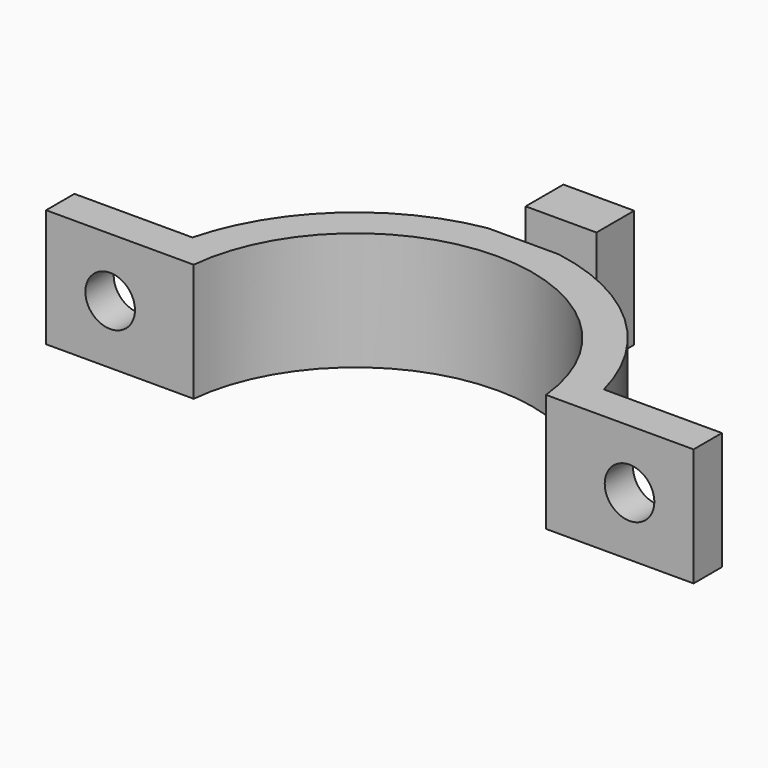
from build123d import *

# Parameters (mm, degrees)
PAD_DEPTH            = 10
SKETCH001_R          = 2.1
POCKET_DEPTH         = 147.35929
SKETCH002_W          = 4
SKETCH002_H          = 6
POCKET001_DEPTH      = 27.429425
POCKET001_DEPTH_BACK = -27.429425


with BuildPart() as part:
    # Sketch → Pad (new body)
    with BuildSketch(Plane.XY):
        with BuildLine():
            ThreePointArc((14.924812, 1.5), (0, 15), (-14.924812, 1.5))
            Line((-27.428425, 1.5), (-14.924812, 1.5))
            Line((-27.428425, 4.5), (-27.428425, 1.5))
            Line((-17.428425, 4.5), (-27.428425, 4.5))
            ThreePointArc((-3, 17.748239), (-12.174116, 13.258616), (-17.428425, 4.5))
            Line((-3, 17.748239), (-3, 25.748239))
            Line((-3, 25.748239), (3, 25.748239))
            Line((3, 25.748239), (3, 17.748239))
            ThreePointArc((17.428425, 4.5), (12.174116, 13.258616), (3, 17.748239))
            Line((27.428425, 4.5), (17.428425, 4.5))
            Line((27.428425, 1.5), (27.428425, 4.5))
            Line((14.924812, 1.5), (27.428425, 1.5))
        make_face()
    extrude(amount=PAD_DEPTH)

    # Sketch001 → Pocket (cut, through all)
    with BuildSketch(Plane.XZ):
        with Locations((-22, 5)):
            Circle(SKETCH001_R)
    pocket = extrude(amount=-POCKET_DEPTH, mode=Mode.SUBTRACT)

    # Mirrored: Pocket across Sketch001 V_Axis
    add(pocket.mirror(Plane(origin=(0, 0, 0), x_dir=(0, -1, 0), z_dir=(1, 0, 0))), mode=Mode.SUBTRACT)

    # Sketch002 → Pocket001 (cut, two sides)
    with BuildSketch(Plane.YZ) as pocket001_sk:
        with Locations((19.748239, 7)):
            Rectangle(SKETCH002_W, SKETCH002_H)
    extrude(amount=-POCKET001_DEPTH, mode=Mode.SUBTRACT)
    extrude(pocket001_sk.sketch, amount=-POCKET001_DEPTH_BACK, mode=Mode.SUBTRACT)


solid = part.part
